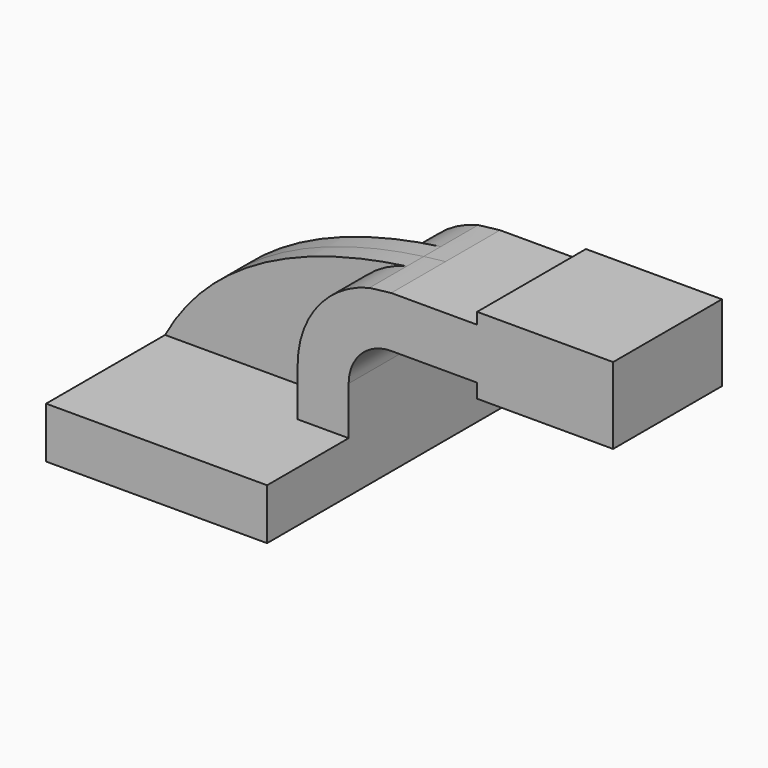
from build123d import *

# Parameters (mm, degrees)
F1_DEPTH = 63.5
F2_DEPTH = 25.4
F3_DEPTH = 7.9375


with BuildPart() as f1:
    # F0 (on Front) → F1 (new body, symmetric)
    with BuildSketch(Plane.XZ):
        Polygon((41.275, -9.525), (41.275, 9.525), (22.225, 9.525), (-41.275, 9.525), (-41.275, -9.525), align=None)
    extrude(amount=F1_DEPTH, both=True)

    # F0 (on Front) → F2 (join, symmetric)
    with BuildSketch(Plane.XZ):
        with BuildLine():
            Line((22.225, 9.525), (41.275, 9.525))
            Line((41.275, 9.525), (41.275, 27.5082))
            ThreePointArc((41.275, 27.5082), (45.9246798487, 38.7335201513), (57.15, 43.3832))
            Line((57.15, 43.3832), (85.725, 43.3832))
            Line((85.725, 43.3832), (89.2527830116, 43.3832))
            Line((89.2527830116, 43.3832), (89.2527830116, 62.4332))
            Line((89.2527830116, 62.4332), (57.15, 62.4332))
            add(Edge.make_bspline(
                [(49.0060559651, 61.4704113614), (51.7327824765, 61.8426488298), (54.4505405881, 62.1619414816), (57.15, 62.4332)],
                knots=[103.7473842529, 103.7473842529, 103.7473842529, 103.7473842529, 111.7441642872, 111.7441642872, 111.7441642872, 111.7441642872], degree=3))
            ThreePointArc((49.0060559651, 61.4704113614), (29.7257144996, 49.1337448438), (22.225, 27.5082))
            Line((22.225, 27.5082), (22.225, 9.525))
        make_face()
        Polygon((89.2527830116, 66.675), (89.2527830116, 62.4332), (113.3148976126, 62.4332), (114.1855414441, 43.3832), (114.427, 38.1), (140.0527830116, 38.1), (140.0527830116, 66.675), align=None)
        Polygon((89.2527830116, 62.4332), (89.2527830116, 43.3832), (114.1855414441, 43.3832), (113.3148976126, 62.4332), align=None)
        Polygon((114.1855414441, 43.3832), (89.2527830116, 43.3832), (89.2527830116, 38.1), (114.427, 38.1), align=None)
    extrude(amount=F2_DEPTH, both=True)

    # F0 (on Front) → F3 (join, symmetric)
    with BuildSketch(Plane.XZ):
        with BuildLine():
            Line((-41.275, 9.525), (22.225, 9.525))
            Line((22.225, 9.525), (22.225, 27.5082))
            ThreePointArc((22.225, 27.5082), (29.7257144996, 49.1337448438), (49.0060559651, 61.4704113614))
            add(Edge.make_bspline(
                [(-41.275, 9.525), (-23.2546272246, 42.9004266833), (13.6304745526, 56.6411346395), (49.0060559651, 61.4704113614)],
                knots=[0, 0, 0, 0, 103.7473842529, 103.7473842529, 103.7473842529, 103.7473842529], degree=3))
        make_face()
    extrude(amount=F3_DEPTH, both=True)


solid = f1.part
